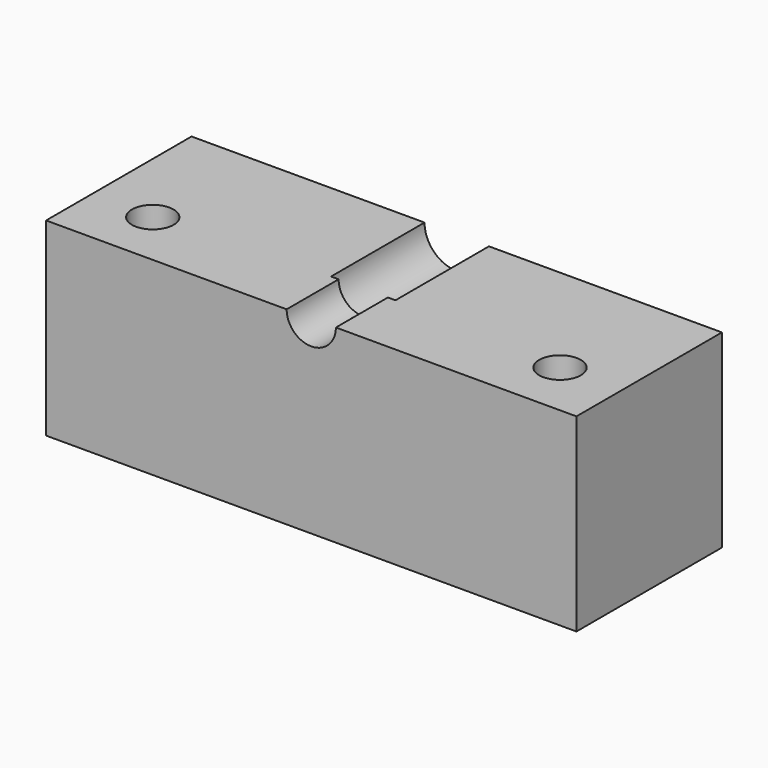
from build123d import *

# Parameters (mm, degrees)
F1_DEPTH  = 48
F2_R      = 5.5
F3_DEPTH  = 50.001
F4_R      = 6.5
F5_DEPTH  = 20
F6_R      = 8.5
F7_DEPTH  = 30.85
F8_R      = 1.21
F9_DEPTH  = 50.001
F10_R     = 10
F11_DEPTH = 10
F12_R     = 3
F13_DEPTH = 20


with BuildPart() as f1:
    # F0 (on Front) → F1 (new body)
    with BuildSketch(Plane.XZ):
        Polygon((-140, 0), (0, 0), (0, 50), (-63.5, 50), (-76.5, 50), (-140, 50), align=None)
    extrude(amount=F1_DEPTH)

    # F2 (on face) → F3 (cut, through all)
    with BuildSketch(Plane.XY.offset(50)):
        with Locations((-123.75, -33.112)):
            Circle(F2_R)
        with Locations((-16.25, -33.112)):
            Circle(F2_R)
    extrude(amount=-F3_DEPTH, mode=Mode.SUBTRACT)

    # F4 (on face) → F5 (cut)
    with BuildSketch(Plane.XZ.offset(48)):
        with Locations((-70, 50)):
            Circle(F4_R)
    extrude(amount=-F5_DEPTH, mode=Mode.SUBTRACT)

    # F6 (on face) → F7 (cut)
    with BuildSketch(Plane(origin=(0, 0, 0), x_dir=(-1, 0, 0), z_dir=(0, 1, 0))):
        with Locations((70, 50)):
            Circle(F6_R)
    extrude(amount=-F7_DEPTH, mode=Mode.SUBTRACT)

    # F8 (on face) → F9 (cut, through all)
    with BuildSketch(Plane.XY.offset(50)):
        with Locations((-70, -33.112198)):
            Circle(F8_R)
    extrude(amount=-F9_DEPTH, mode=Mode.SUBTRACT)

    # F10 (on face) → F11 (cut)
    with BuildSketch(Plane(origin=(0, 0, 0), x_dir=(1, 0, 0), z_dir=(0, 0, -1))):
        with Locations((-70, 33.112198)):
            Circle(F10_R)
    extrude(amount=-F11_DEPTH, mode=Mode.SUBTRACT)

    # F12 (on face) → F13 (cut)
    with BuildSketch(Plane(origin=(0, 0, 10), x_dir=(1, 0, 0), z_dir=(0, 0, -1))):
        with Locations((-70, 33.112198)):
            Circle(F12_R)
    extrude(amount=-F13_DEPTH, mode=Mode.SUBTRACT)


solid = f1.part
